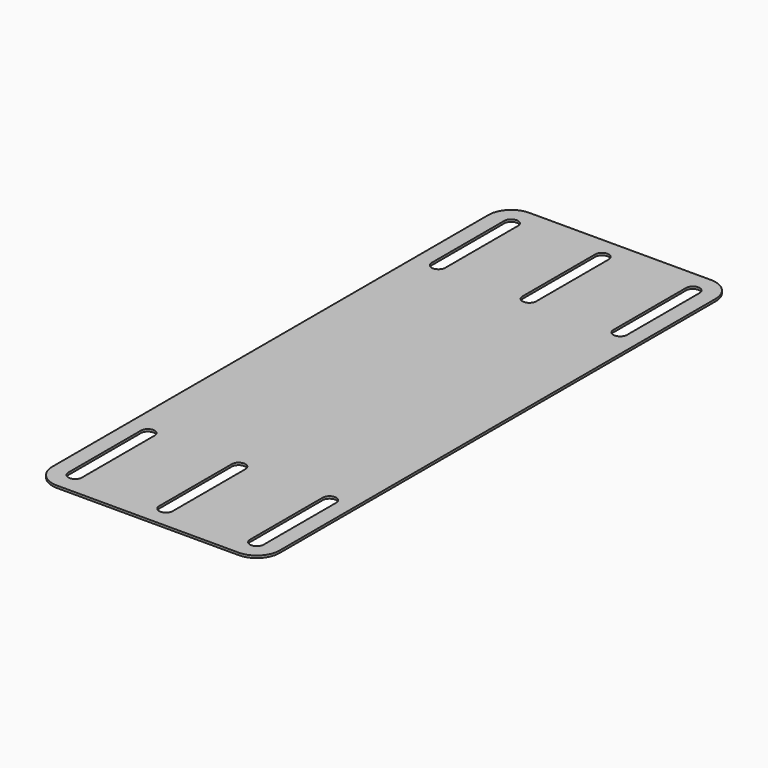
from build123d import *

# Parameters (mm, degrees)
SKETCH006_W     = 100
SKETCH006_H     = 260
PAD001_DEPTH    = 1
POCKET005_DEPTH = 5
FILLET_R        = 10


with BuildPart() as part:
    # Sketch006 → Pad001 (new body)
    with BuildSketch(Plane.XY):
        with Locations((-350, 0)):
            Rectangle(SKETCH006_W, SKETCH006_H)
    extrude(amount=PAD001_DEPTH)

    # Sketch007 (on Face6 of Pad001) → Pocket005 (cut)
    with BuildSketch(Plane.XY.offset(1)):
        with BuildLine():
            ThreePointArc((-347, -80), (-350, -77), (-353, -80))
            Line((-353, -80), (-353, -120))
            ThreePointArc((-353, -120), (-350, -123), (-347, -120))
            Line((-347, -80), (-347, -120))
        make_face()
        with BuildLine():
            ThreePointArc((-387, -80), (-390, -77), (-393, -80))
            Line((-393, -80), (-393, -120))
            ThreePointArc((-393, -120), (-390, -123), (-387, -120))
            Line((-387, -80), (-387, -120))
        make_face()
        with BuildLine():
            ThreePointArc((-307, -80), (-310, -77), (-313, -80))
            Line((-313, -80), (-313, -120))
            ThreePointArc((-313, -120), (-310, -123), (-307, -120))
            Line((-307, -80), (-307, -120))
        make_face()
        with BuildLine():
            ThreePointArc((-347, 120), (-350, 123), (-353, 120))
            Line((-353, 120), (-353, 80))
            ThreePointArc((-353, 80), (-350, 77), (-347, 80))
            Line((-347, 120), (-347, 80))
        make_face()
        with BuildLine():
            ThreePointArc((-387, 120), (-390, 123), (-393, 120))
            Line((-393, 120), (-393, 80))
            ThreePointArc((-393, 80), (-390, 77), (-387, 80))
            Line((-387, 120), (-387, 80))
        make_face()
        with BuildLine():
            ThreePointArc((-307, 120), (-310, 123), (-313, 120))
            Line((-313, 120), (-313, 80))
            ThreePointArc((-313, 80), (-310, 77), (-307, 80))
            Line((-307, 120), (-307, 80))
        make_face()
    extrude(amount=-POCKET005_DEPTH, mode=Mode.SUBTRACT)

    # Fillet
    fillet_edges = [part.edges().sort_by_distance(p)[0] for p in [
        (-400, 130, 0.5),
        (-400, -130, 0.5),
        (-300, -130, 0.5),
        (-300, 130, 0.5),
    ]]
    fillet(fillet_edges, radius=FILLET_R)


solid = part.part
